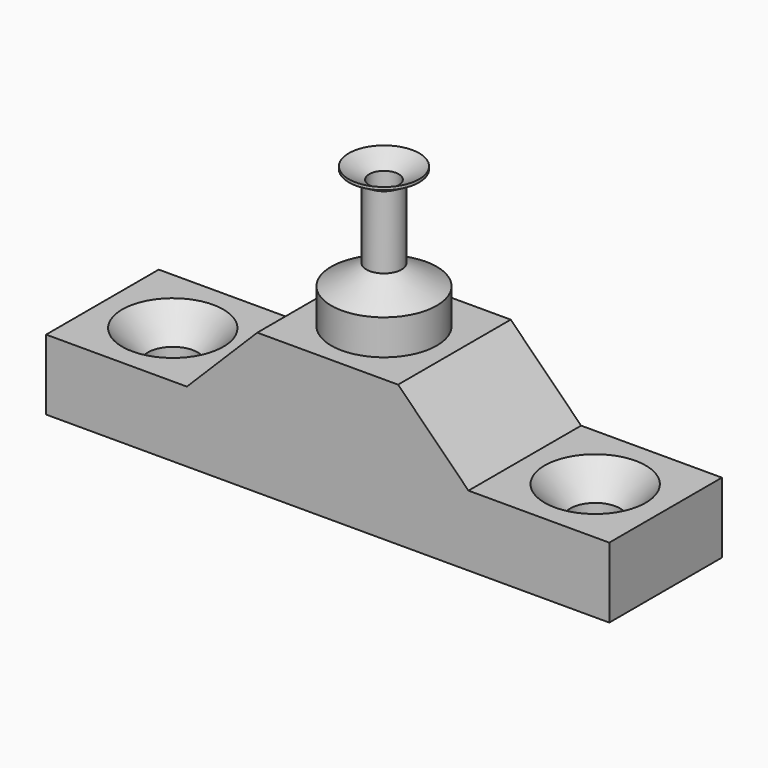
from build123d import *

# Parameters (mm, degrees)
F1_DEPTH       = 6.35
F3_D           = 4.4958
F3_CSINK_D     = 9.1186
F3_CSINK_ANGLE = 82


with BuildPart() as f1:
    # F0 (on Front) → F1 (new body, symmetric)
    with BuildSketch(Plane.XZ):
        Polygon((25.4, -3.175), (25.4, 3.175), (12.7, 3.175), (6.35, 9.525), (-6.35, 9.525), (-12.7, 3.175), (-25.4, 3.175), (-25.4, -3.175), align=None)
    extrude(amount=F1_DEPTH, both=True)

    # F3 (through all)
    with Locations(Plane.XY.offset(3.175)):
        with Locations((-19.05, 0), (19.05, 0)):
            CounterSinkHole(F3_D / 2, F3_CSINK_D / 2, counter_sink_angle=F3_CSINK_ANGLE)

    # F4 (on Front) → F5 (revolve)
    with BuildSketch(Plane.XZ):
        Polygon((0, 12.7), (0, 9.525), (4.7625, 9.525), (4.7625, 12.7), (1.5875, 14.5330871047), (1.5875, 21.0544564477), (3.175, 21.971), (3.175, 22.225), (1.3335, 21.1618094793), (1.3335, 12.7), align=None)
    revolve(axis=Axis((0, 0, 11.1125), (0, 0, 1)))


solid = f1.part
